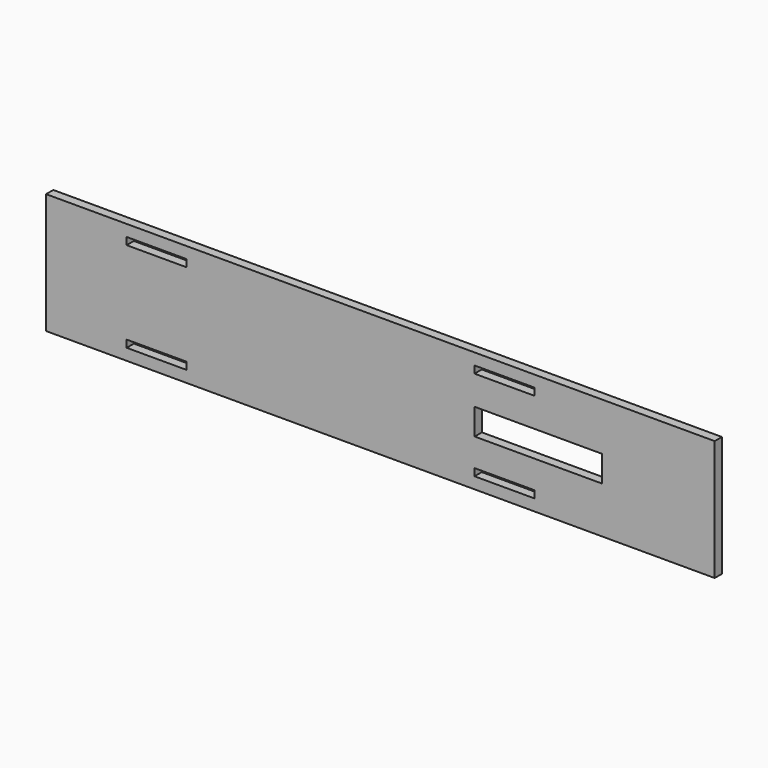
from build123d import *

# Parameters (mm, degrees)
F0_W     = 281.793315
F0_H     = 50.8
F1_DEPTH = 3.81
F2_W     = 25.273
F2_H     = 3.048
F3_DEPTH = 25.4
F5_DEPTH = 25.4


with BuildPart() as f1:
    # F0 (on Front) → F1 (new body)
    with BuildSketch(Plane.XZ):
        with Locations((18.189594, -20.427606)):
            Rectangle(F0_W, F0_H)
    extrude(amount=F1_DEPTH)

    # F2 (on face) → F3 (cut)
    with BuildSketch(Plane.XZ.offset(3.81)):
        with Locations((70.503751, -1.390693)):
            Rectangle(F2_W, F2_H)
        with Locations((70.503751, -39.464519)):
            Rectangle(F2_W, F2_H)
        with Locations((-76.110764, -1.390693)):
            Rectangle(F2_W, F2_H)
        with Locations((-76.110764, -39.464519)):
            Rectangle(F2_W, F2_H)
    extrude(amount=-F3_DEPTH, mode=Mode.SUBTRACT)

    # F4 (on face) → F5 (cut)
    with BuildSketch(Plane.XZ.offset(3.81)):
        Polygon((111.503996, -15.1832), (67.158138, -15.1832), (57.92642, -15.1832), (57.92642, -26.221192), (67.158138, -26.221192), (111.503996, -26.221192), align=None)
    extrude(amount=-F5_DEPTH, mode=Mode.SUBTRACT)


solid = f1.part
